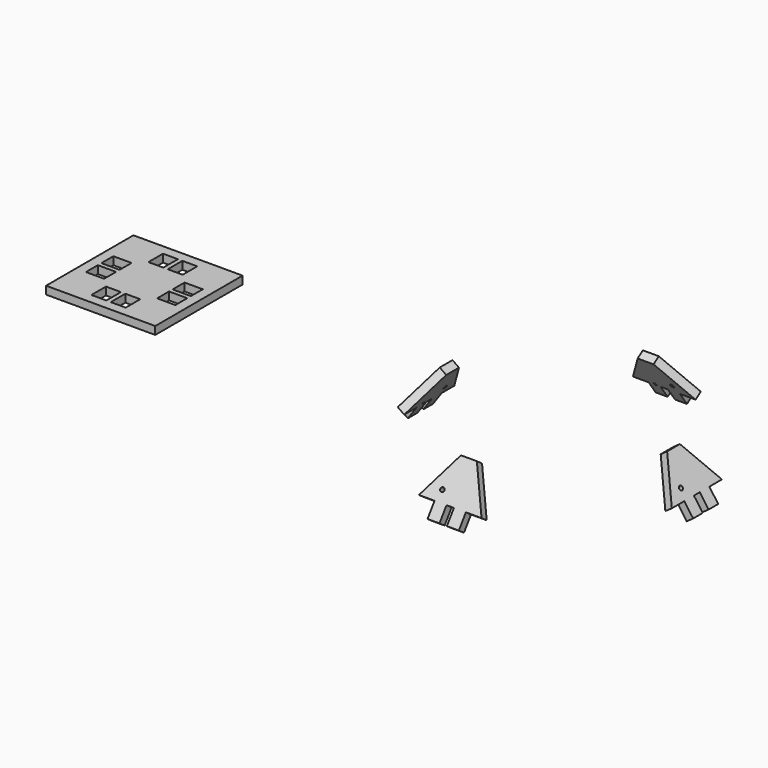
from build123d import *

# Parameters (mm, degrees)
F2_R     = 0.417678
F2_W     = 0.5
F2_H     = 0.5
F3_DEPTH = 1.6
F4_DEPTH = 0.6
F7_COUNT = 4
F8_DEPTH = 1.6


with BuildPart() as f3:
    # F2 (on face) → F3 (new body)
    with BuildSketch(Plane(origin=(0, 0, 0), x_dir=(0, -1, 0), z_dir=(-0.816541, 0, 0.577288))):
        Polygon((3.175, -2.553741), (6.349975, -2.553741), (1.616583, 5.644769), (-1.616583, 5.644769), (-6.35, -2.553741), (-3.175, -2.553741), (-3.175, -5.644744), (-0.750011, -5.644744), (-0.750011, -2.553741), (0.749986, -2.553741), (0.749986, -5.644744), (3.175, -5.644744), align=None)
        with Locations((-2.552141, -0.481787)):
            Circle(F2_R, mode=Mode.SUBTRACT)
        with Locations((1.712493, -2.303741)):
            Rectangle(F2_W, F2_H, mode=Mode.SUBTRACT)
        with Locations((1.712493, -2.303741)):
            Rectangle(F2_W, F2_H)
    extrude(amount=F3_DEPTH)

    # F2 (on face) → F4 (cut)
    with BuildSketch(Plane(origin=(0, 0, 0), x_dir=(0, -1, 0), z_dir=(-0.816541, 0, 0.577288))):
        with Locations((1.712493, -2.303741)):
            Rectangle(F2_W, F2_H)
    extrude(amount=F4_DEPTH, mode=Mode.SUBTRACT)


with BuildPart() as f7_1:
    # F7: instance of F3
    add(f3.part.rotate(Axis((25, 0, 13.070024), (0, 0, 1)), 1 * 360 / F7_COUNT))


with BuildPart() as f7_2:
    # F7: instance of F3
    add(f3.part.rotate(Axis((25, 0, 13.070024), (0, 0, 1)), 2 * 360 / F7_COUNT))


with BuildPart() as f7_3:
    # F7: instance of F3
    add(f3.part.rotate(Axis((25, 0, 13.070024), (0, 0, 1)), 3 * 360 / F7_COUNT))


with BuildPart() as f8:
    # F0 (on Top) → F8 (new body)
    with BuildSketch(Plane.XY):
        Polygon((-48.734014, -10.365968), (-48.734014, 0.7), (-48.734014, 11.765992), (-59.800007, 11.765992), (-70.865974, 11.765992), (-70.865974, 0.7), (-70.865974, -10.365968), (-59.800007, -10.365968), align=None)
        Polygon((-60.249993, -4.674971), (-60.249993, -8.365972), (-63.274981, -8.365972), (-63.274981, -8.065972), (-63.274981, -4.97497), (-63.274981, -4.674971), align=None, mode=Mode.SUBTRACT)
        Polygon((-56.325007, -8.365972), (-59.349995, -8.365972), (-59.349995, -4.674971), (-56.325007, -4.674971), (-56.325007, -4.97497), (-56.325007, -8.065972), align=None, mode=Mode.SUBTRACT)
        Polygon((-68.865978, -2.774974), (-68.865978, 0.250013), (-65.174977, 0.250013), (-65.174977, -2.774974), (-65.474976, -2.774974), (-68.565978, -2.774974), align=None, mode=Mode.SUBTRACT)
        Polygon((-54.425011, 0.250013), (-50.73401, 0.250013), (-50.73401, -2.774974), (-51.034009, -2.774974), (-54.125012, -2.774974), (-54.425011, -2.774974), align=None, mode=Mode.SUBTRACT)
        Polygon((-65.174977, 1.150011), (-68.865978, 1.150011), (-68.865978, 4.174999), (-68.565978, 4.174999), (-65.474976, 4.174999), (-65.174977, 4.174999), align=None, mode=Mode.SUBTRACT)
        Polygon((-50.73401, 4.174999), (-50.73401, 1.150011), (-54.425011, 1.150011), (-54.425011, 4.174999), (-54.125012, 4.174999), (-51.034009, 4.174999), align=None, mode=Mode.SUBTRACT)
        Polygon((-63.274981, 9.765996), (-60.249993, 9.765996), (-60.249993, 6.074995), (-63.274981, 6.074995), (-63.274981, 6.374995), (-63.274981, 9.465997), align=None, mode=Mode.SUBTRACT)
        Polygon((-59.349995, 6.074995), (-59.349995, 9.765996), (-56.325007, 9.765996), (-56.325007, 9.465997), (-56.325007, 6.374995), (-56.325007, 6.074995), align=None, mode=Mode.SUBTRACT)
    extrude(amount=-F8_DEPTH)


solid = Compound([f3.part, f7_1.part, f7_2.part, f7_3.part, f8.part])
